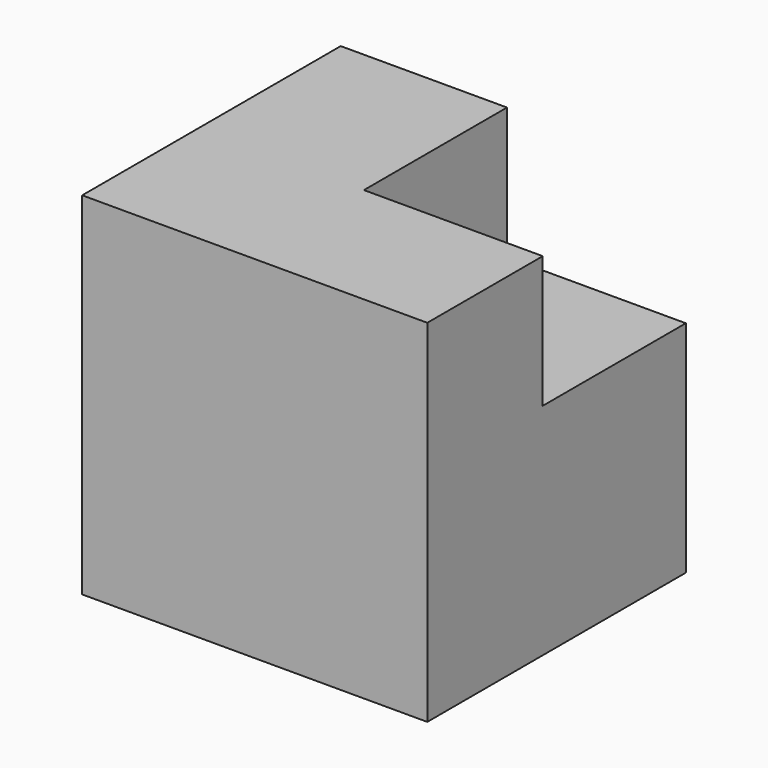
from build123d import *

# Parameters (mm, degrees)
F1_DEPTH = 35
F3_DEPTH = 21


with BuildPart() as f1:
    # F0 (on Top) → F1 (new body)
    with BuildSketch(Plane.XY):
        Polygon((27.656219, 25.896278), (-27.343781, 25.896278), (-27.343781, -25.603722), align=None)
        Polygon((27.656219, -25.603722), (27.656219, 25.896278), (-27.343781, -25.603722), align=None)
    extrude(amount=F1_DEPTH)

    # F2 (on face) → F3 (join)
    with BuildSketch(Plane.XY.offset(35)):
        Polygon((-0.843781, 25.896278), (-27.343781, 25.896278), (-27.343781, -25.603722), (27.656219, -25.603722), (27.656219, -2.603722), (-0.843781, -2.603722), align=None)
    extrude(amount=F3_DEPTH)


solid = f1.part
